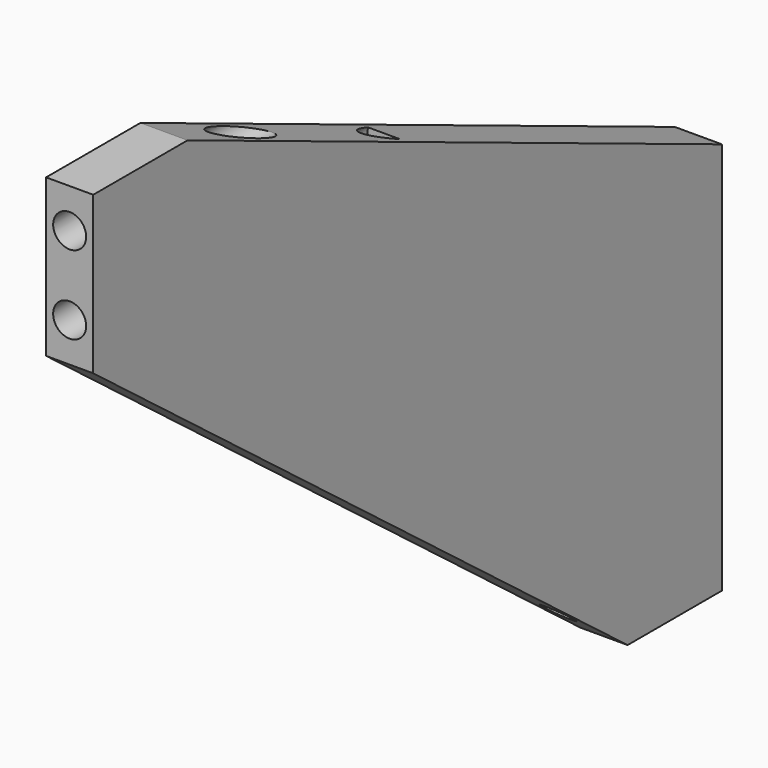
from build123d import *

# Parameters (mm, degrees)
F1_DEPTH = 6
F2_R     = 2.1
F3_DEPTH = 50
F4_R     = 1.65
F5_DEPTH = 30


with BuildPart() as f1:
    # F0 (on Right) → F1 (new body)
    with BuildSketch(Plane.YZ):
        Polygon((-15, 0), (0, 0), (0, 50), (-85, 85), (-100, 85), (-100, 65), align=None)
    extrude(amount=F1_DEPTH)

    # F2 (on face) → F3 (cut)
    with BuildSketch(Plane.XZ.offset(100)):
        with Locations((3, 70)):
            Circle(F2_R)
        with Locations((3, 80)):
            Circle(F2_R)
    extrude(amount=-F3_DEPTH, mode=Mode.SUBTRACT)

    # F4 (on face) → F5 (cut)
    with BuildSketch(Plane(origin=(0, 0, 0), x_dir=(-1, 0, 0), z_dir=(0, 1, 0))):
        with Locations((-3, 45.6)):
            Circle(F4_R)
        with Locations((-3, 5.6)):
            Circle(F4_R)
    extrude(amount=-F5_DEPTH, mode=Mode.SUBTRACT)


solid = f1.part
